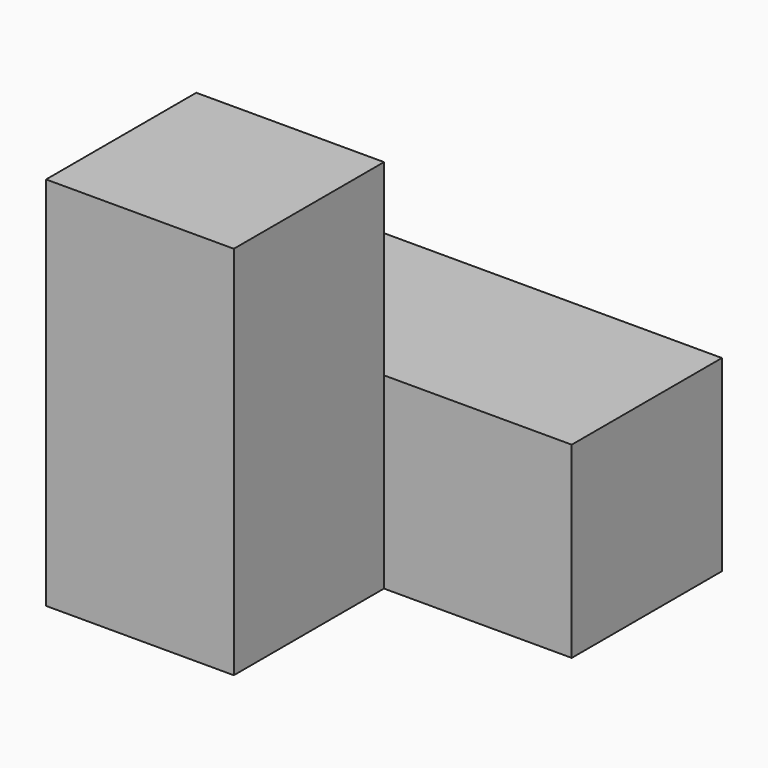
from build123d import *

# Parameters (mm, degrees)
F0_W     = 19.05
F0_H     = 19.05
F1_DEPTH = 19.05
F2_W     = 19.05
F2_H     = 19.05
F3_DEPTH = 38.1


with BuildPart() as f1:
    # F0 (on Top) → F1 (new body)
    with BuildSketch(Plane.XY):
        Polygon((0, 19.05), (0, 0), (19.05, 0), (38.1, 0), (38.1, 19.05), align=None)
        with Locations((9.525, -9.525)):
            Rectangle(F0_W, F0_H)
    extrude(amount=F1_DEPTH)

    # F2 (on Top) → F3 (join)
    with BuildSketch(Plane.XY):
        with Locations((9.525, -9.525)):
            Rectangle(F2_W, F2_H)
    extrude(amount=F3_DEPTH)


solid = f1.part
